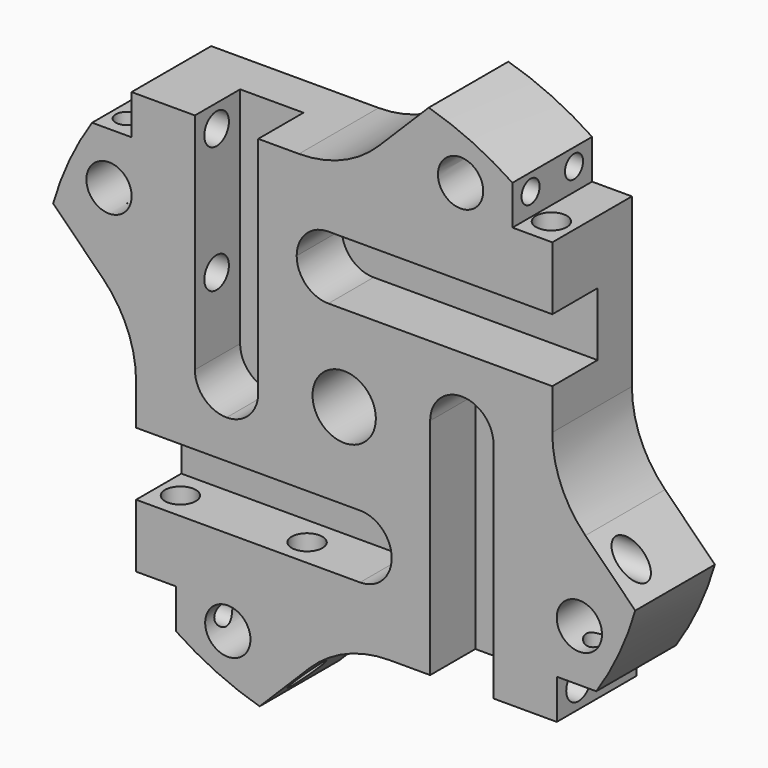
from build123d import *

# Parameters (mm, degrees)
F0_R             = 5
F1_DEPTH         = 22
F2_R             = 20
F3_DEPTH         = 0.5
F5_D             = 5
F5_DEPTH         = 15
F5_TIP           = 1.5021515476
F7_D             = 5
F7_DEPTH         = 15
F7_TIP           = 1.5021515476
F9_D             = 5
F9_DEPTH         = 15
F9_TIP           = 1.5021515476
F11_D            = 5
F11_DEPTH        = 15
F11_TIP          = 1.5021515476
F13_DEPTH        = 12.5
F18_D            = 6.8
F18_DEPTH        = 35
F18_TIP          = 2.0429261047
F18_ON_F15_D     = 6.8
F18_ON_F15_DEPTH = 35
F18_ON_F15_TIP   = 2.0429261047
F18_ON_F16_D     = 6.8
F18_ON_F16_DEPTH = 35
F18_ON_F16_TIP   = 2.0429261047
F18_ON_F17_D     = 6.8
F18_ON_F17_DEPTH = 35
F18_ON_F17_TIP   = 2.0429261047
F20_D            = 14
F20_CSINK_D      = 16
F20_CSINK_ANGLE  = 90
F21_R            = 7.5
F22_DEPTH        = 7


with BuildPart() as f1:
    # F0 (on Front) → F1 (new body)
    with BuildSketch(Plane.XZ):
        with BuildLine():
            ThreePointArc((-53.3223304703, 7.6776695297), (-47.9030116872, -0.4329141909), (-46, -10))
            Line((-46, -10), (-46, -47))
            Line((-46, -47), (-37.2, -47))
            Line((-37.2, -47), (-37.2, -55.7239625296))
            ThreePointArc((-37.2, -55.7239625296), (-28.2772323674, -60.7404159488), (-18.6944279761, -64.3390889168))
            Line((-18.6944279761, -64.3390889168), (-7.6776695297, -53.3223304703))
            ThreePointArc((-7.6776695297, -53.3223304703), (0.4329141909, -47.9030116872), (10, -46))
            Line((10, -46), (47, -46))
            Line((47, -46), (47, -37.2))
            Line((47, -37.2), (55.7239625296, -37.2))
            ThreePointArc((55.7239625296, -37.2), (60.7404159488, -28.2772323674), (64.3390889168, -18.6944279761))
            Line((64.3390889168, -18.6944279761), (53.3223304703, -7.6776695297))
            ThreePointArc((53.3223304703, -7.6776695297), (47.9030116872, 0.4329141909), (46, 10))
            Line((46, 10), (46, 47))
            Line((46, 47), (37.2, 47))
            Line((37.2, 47), (37.2, 55.7239625296))
            ThreePointArc((37.2, 55.7239625296), (28.2772323674, 60.7404159488), (18.6944279761, 64.3390889168))
            Line((18.6944279761, 64.3390889168), (7.6776695297, 53.3223304703))
            ThreePointArc((7.6776695297, 53.3223304703), (-0.4329141909, 47.9030116872), (-10, 46))
            Line((-10, 46), (-47, 46))
            Line((-47, 46), (-47, 37.2))
            Line((-47, 37.2), (-55.7239625296, 37.2))
            ThreePointArc((-55.7239625296, 37.2), (-60.7404159488, 28.2772323674), (-64.3390889168, 18.6944279761))
            Line((-64.3390889168, 18.6944279761), (-53.3223304703, 7.6776695297))
        make_face()
        with Locations((-25.7253506974, -51.9827503264)):
            Circle(F0_R, mode=Mode.SUBTRACT)
        with Locations((51.9827503264, -25.7253506974)):
            Circle(F0_R, mode=Mode.SUBTRACT)
        with BuildLine():
            ThreePointArc((-47.5014787465, 23.507648051), (-56.8513413905, 26.8641312075), (-46.9827503264, 25.7253506974))
            ThreePointArc((-46.9827503264, 25.7253506974), (-47.1141592623, 24.5865701872), (-47.5014787465, 23.507648051))
        make_face(mode=Mode.SUBTRACT)
        with Locations((25.7253506974, 51.9827503264)):
            Circle(F0_R, mode=Mode.SUBTRACT)
    extrude(amount=-F1_DEPTH)

    # F2 (on face) → F3 (join)
    with BuildSketch(Plane(origin=(0, 22, 0), x_dir=(-1, 0, 0), z_dir=(0, 1, 0))):
        Circle(F2_R)
    extrude(amount=F3_DEPTH)

    # F5
    with Locations(Plane.YZ.offset(37.2)):
        with Locations((5, 51.983), (17, 51.983)):
            Hole(F5_D / 2, depth=F5_DEPTH)
            with Locations((0, 0, -(F5_DEPTH + F5_TIP / 2))):  # 118° drill point
                Cone(0, F5_D / 2, F5_TIP, mode=Mode.SUBTRACT)

    # F7
    with Locations(Plane.XY.offset(37.2)):
        with Locations((-51.983, 17), (-51.983, 5)):
            Hole(F7_D / 2, depth=F7_DEPTH)
            with Locations((0, 0, -(F7_DEPTH + F7_TIP / 2))):  # 118° drill point
                Cone(0, F7_D / 2, F7_TIP, mode=Mode.SUBTRACT)

    # F9
    with Locations(Plane(origin=(-37.2, 0, 0), x_dir=(0, -1, 0), z_dir=(-1, 0, 0))):
        with Locations((-5, -51.983), (-17, -51.983)):
            Hole(F9_D / 2, depth=F9_DEPTH)
            with Locations((0, 0, -(F9_DEPTH + F9_TIP / 2))):  # 118° drill point
                Cone(0, F9_D / 2, F9_TIP, mode=Mode.SUBTRACT)

    # F11
    with Locations(Plane(origin=(0, 0, -37.2), x_dir=(1, 0, 0), z_dir=(0, 0, -1))):
        with Locations((51.983, -5), (51.983, -17)):
            Hole(F11_D / 2, depth=F11_DEPTH)
            with Locations((0, 0, -(F11_DEPTH + F11_TIP / 2))):  # 118° drill point
                Cone(0, F11_D / 2, F11_TIP, mode=Mode.SUBTRACT)

    # F12 (on face) → F13 (cut)
    with BuildSketch(Plane.XZ):
        with BuildLine():
            Line((19, 3.5), (19, -46))
            Line((19, -46), (33, -46))
            Line((33, -46), (33, 3.5))
            ThreePointArc((33, 3.5), (30.9497474683, 8.4497474683), (26, 10.5))
            ThreePointArc((26, 10.5), (21.0502525317, 8.4497474683), (19, 3.5))
        make_face()
        with BuildLine():
            Line((-3.5, 19), (46, 19))
            Line((46, 19), (46, 33))
            Line((46, 33), (-3.5, 33))
            ThreePointArc((-3.5, 33), (-8.4497474683, 30.9497474683), (-10.5, 26))
            ThreePointArc((-10.5, 26), (-8.4497474683, 21.0502525317), (-3.5, 19))
        make_face()
        with BuildLine():
            Line((-19, -3.5), (-19, 46))
            Line((-19, 46), (-33, 46))
            Line((-33, 46), (-33, -3.5))
            ThreePointArc((-33, -3.5), (-30.9497474683, -8.4497474683), (-26, -10.5))
            ThreePointArc((-26, -10.5), (-21.0502525317, -8.4497474683), (-19, -3.5))
        make_face()
        with BuildLine():
            Line((3.5, -19), (-46, -19))
            Line((-46, -19), (-46, -33))
            Line((-46, -33), (3.5, -33))
            ThreePointArc((3.5, -33), (8.4497474683, -30.9497474683), (10.5, -26))
            ThreePointArc((10.5, -26), (8.4497474683, -21.0502525317), (3.5, -19))
        make_face()
    extrude(amount=-F13_DEPTH, mode=Mode.SUBTRACT)

    # F18 (one way)
    with BuildSketch(Plane.YZ.offset(-33)):
        with Locations((6, 41), (6, 13)):
            Circle(F18_D / 2)
    extrude(amount=-F18_DEPTH, mode=Mode.SUBTRACT)
    with Locations(Plane.YZ.offset(-33)):
        with Locations((6, 41), (6, 13)):
            with Locations((0, 0, -(F18_DEPTH + F18_TIP / 2))):  # 118° drill point
                Cone(0, F18_D / 2, F18_TIP, mode=Mode.SUBTRACT)

    # F18 on F15 (one way)
    with BuildSketch(Plane.XY.offset(-33)):
        with Locations((-41, 6), (-13, 6)):
            Circle(F18_ON_F15_D / 2)
    extrude(amount=-F18_ON_F15_DEPTH, mode=Mode.SUBTRACT)
    with Locations(Plane.XY.offset(-33)):
        with Locations((-41, 6), (-13, 6)):
            with Locations((0, 0, -(F18_ON_F15_DEPTH + F18_ON_F15_TIP / 2))):  # 118° drill point
                Cone(0, F18_ON_F15_D / 2, F18_ON_F15_TIP, mode=Mode.SUBTRACT)

    # F18 on F16 (one way)
    with BuildSketch(Plane(origin=(33, 0, 0), x_dir=(0, -1, 0), z_dir=(-1, 0, 0))):
        with Locations((-6, -41), (-6, -13)):
            Circle(F18_ON_F16_D / 2)
    extrude(amount=-F18_ON_F16_DEPTH, mode=Mode.SUBTRACT)
    with Locations(Plane(origin=(33, 0, 0), x_dir=(0, -1, 0), z_dir=(-1, 0, 0))):
        with Locations((-6, -41), (-6, -13)):
            with Locations((0, 0, -(F18_ON_F16_DEPTH + F18_ON_F16_TIP / 2))):  # 118° drill point
                Cone(0, F18_ON_F16_D / 2, F18_ON_F16_TIP, mode=Mode.SUBTRACT)

    # F18 on F17 (one way)
    with BuildSketch(Plane(origin=(0, 0, 33), x_dir=(1, 0, 0), z_dir=(0, 0, -1))):
        with Locations((41, -6), (13, -6)):
            Circle(F18_ON_F17_D / 2)
    extrude(amount=-F18_ON_F17_DEPTH, mode=Mode.SUBTRACT)
    with Locations(Plane(origin=(0, 0, 33), x_dir=(1, 0, 0), z_dir=(0, 0, -1))):
        with Locations((41, -6), (13, -6)):
            with Locations((0, 0, -(F18_ON_F17_DEPTH + F18_ON_F17_TIP / 2))):  # 118° drill point
                Cone(0, F18_ON_F17_D / 2, F18_ON_F17_TIP, mode=Mode.SUBTRACT)

    # F20 (through all)
    with Locations(Plane(origin=(0, 22.5, 0), x_dir=(-1, 0, 0), z_dir=(0, 1, 0))):
        with Locations((0, 0)):
            CounterSinkHole(F20_D / 2, F20_CSINK_D / 2, counter_sink_angle=F20_CSINK_ANGLE)

    # F21 (on face) → F22 (cut)
    with BuildSketch(Plane(origin=(0, 22.5, 0), x_dir=(-1, 0, 0), z_dir=(0, 1, 0))):
        Circle(F21_R)
    extrude(amount=-F22_DEPTH, mode=Mode.SUBTRACT)


solid = f1.part
